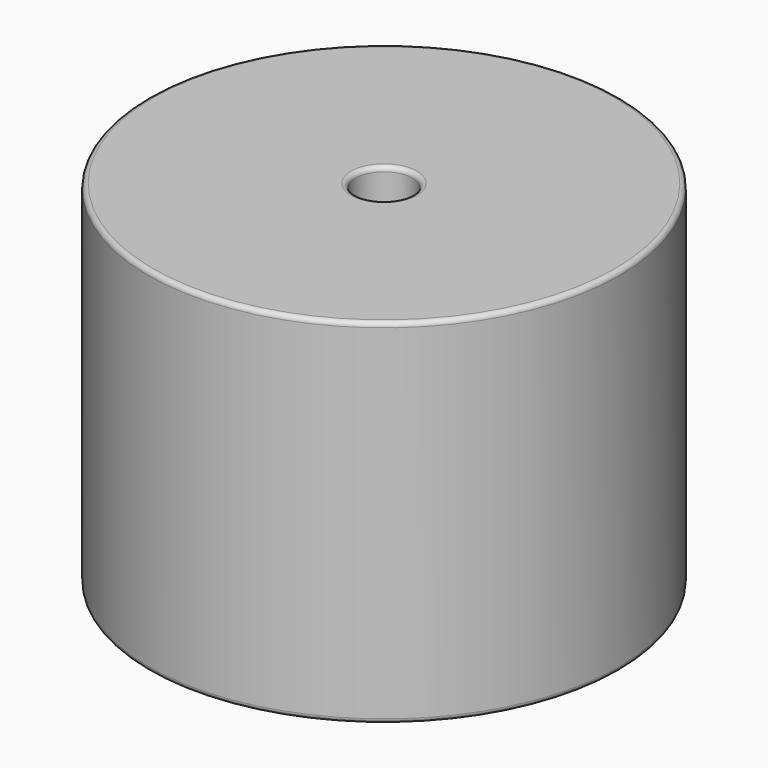
from build123d import *

# Parameters (mm, degrees)
SKETCH_R          = 25.4
SKETCH_R_2        = 3.05
PAD_DEPTH         = 38.1
FILLET_R          = 0.5
SKETCH001_R       = 1.3
PAD001_DEPTH      = 19.05
PAD001_DEPTH_BACK = 3.5


with BuildPart() as fillet_body:
    # Sketch → Pad (new body)
    with BuildSketch(Plane.XY.offset(0.1)):
        with Locations((19.43, 0)):
            Circle(SKETCH_R)
        with Locations((19.43, 0)):
            Circle(SKETCH_R_2, mode=Mode.SUBTRACT)
    extrude(amount=PAD_DEPTH)

    # Fillet
    fillet_edges = [fillet_body.edges().sort_by_distance(p)[0] for p in [
        (16.38, 0, 38.2),
        (-5.97, 0, 38.2),
        (-5.97, 0, 0.1),
    ]]
    fillet(fillet_edges, radius=FILLET_R)


with BuildPart() as obj1:
    # Sketch001 → Pad001 (new body, two sides)
    with BuildSketch(Plane.XY.offset(0.5)) as pad001_sk:
        Circle(SKETCH001_R)
        with Locations((38.86, 0)):
            Circle(SKETCH001_R)
    extrude(amount=PAD001_DEPTH)
    extrude(pad001_sk.sketch, amount=-PAD001_DEPTH_BACK)

    # obj1: union Fillet body
    add(fillet_body.part)


solid = obj1.part
